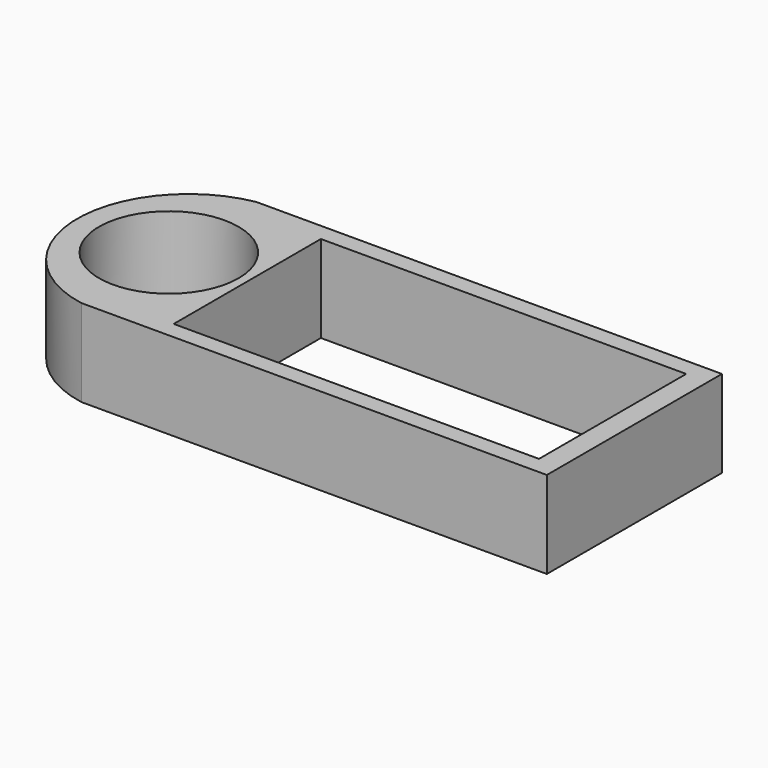
from build123d import *

# Parameters (mm, degrees)
F0_R     = 8
F0_W     = 41.9
F0_H     = 21.1
F1_DEPTH = 10


with BuildPart() as f1:
    # F0 (on Top) → F1 (new body)
    with BuildSketch(Plane.XY):
        with BuildLine():
            Line((26.7, -12.55), (26.7, 12.55))
            Line((26.7, 12.55), (-26.7, 12.55))
            ThreePointArc((-26.7, 12.55), (-37.2, 0), (-26.7, -12.55))
            Line((-26.7, -12.55), (26.7, -12.55))
        make_face()
        with Locations((-26.7, 0)):
            Circle(F0_R, mode=Mode.SUBTRACT)
        with Locations((3.25, 0)):
            Rectangle(F0_W, F0_H, mode=Mode.SUBTRACT)
    extrude(amount=F1_DEPTH)


solid = f1.part
